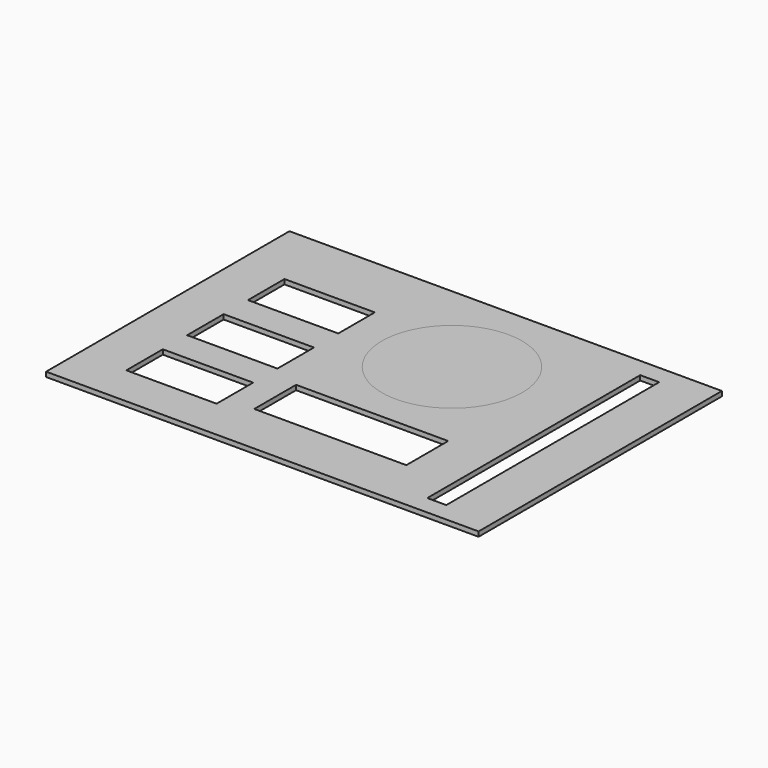
from build123d import *

# Parameters (mm, degrees)
F0_R     = 14.75
F1_DEPTH = 1
F0_W     = 91
F0_H     = 64
F0_W_2   = 19
F0_H_2   = 9.6
F0_W_3   = 32
F0_H_3   = 11
F0_W_4   = 4
F0_H_4   = 56
F2_DEPTH = 1


with BuildPart() as f1:
    # F0 (on Top) → F1 (new body)
    with BuildSketch(Plane.XY):
        with Locations((51, -21)):
            Circle(F0_R)
    extrude(amount=F1_DEPTH)


with BuildPart() as f2:
    # F0 (on Top) → F2 (new body)
    with BuildSketch(Plane.XY):
        with Locations((45.5, -32)):
            Rectangle(F0_W, F0_H)
        with Locations((19.5, -50.6)):
            Rectangle(F0_W_2, F0_H_2, mode=Mode.SUBTRACT)
        with Locations((19.5, -34.6)):
            Rectangle(F0_W_2, F0_H_2, mode=Mode.SUBTRACT)
        with Locations((51, -47.5)):
            Rectangle(F0_W_3, F0_H_3, mode=Mode.SUBTRACT)
        with Locations((19.5, -18.6)):
            Rectangle(F0_W_2, F0_H_2, mode=Mode.SUBTRACT)
        with Locations((51, -21)):
            Circle(F0_R, mode=Mode.SUBTRACT)
        with Locations((79, -32)):
            Rectangle(F0_W_4, F0_H_4, mode=Mode.SUBTRACT)
    extrude(amount=F2_DEPTH)


solid = Compound([f1.part, f2.part])
